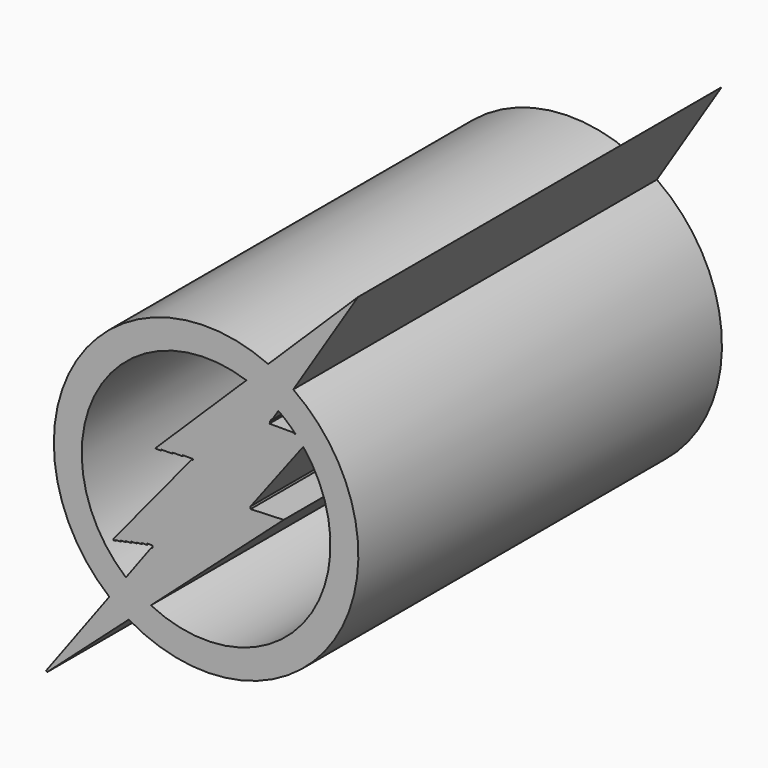
from build123d import *

# Parameters (mm, degrees)
F2_DEPTH = 38.1
F1_R     = 12.7635
F1_R_2   = 10.426057
F3_DEPTH = 38.1


with BuildPart() as f2:
    # F0 (on Front) → F2 (new body)
    with BuildSketch(Plane.XZ):
        Polygon((25.129177, 26.117954), (32.333359, 37.515946), (15.319627, 20.808231), (15.802965, 20.808231), (15.802965, 20.893212), (16.759016, 20.893212), (16.759016, 20.978196), (17.630085, 20.978196), (17.630085, 21.063179), (18.506467, 21.063179), (18.506467, 20.978196), (18.384304, 20.978196), (11.83995, 13.0127), (11.83995, 12.901361), (11.993659, 12.901361), (11.993659, 12.984364), (12.427119, 12.984364), (12.427119, 13.082738), (12.851357, 13.082738), (12.851357, 13.17189), (13.302342, 13.17189), (13.302342, 13.28754), (13.756311, 13.28754), (13.756311, 13.372659), (14.185456, 13.372659), (14.185456, 13.464872), (14.642972, 13.464872), (14.642972, 13.578364), (15.089849, 13.578364), (15.089849, 13.372659), (15.001183, 13.372659), (6.182067, 1.436029), (6.279744, 1.363862), (26.100319, 19.04314), (23.327032, 18.933799), (23.319191, 19.132684), (28.188484, 25.565702), (28.188484, 25.684502), (26.990166, 25.684502), (26.990166, 25.751648), (24.876347, 25.751648), (24.876347, 25.776967), (24.934566, 25.776967), (24.934566, 25.968254), (25.032703, 25.964927), (25.032703, 26.117954), align=None)
    extrude(amount=F2_DEPTH)

    # F1 (on Front) → F3 (join)
    with BuildSketch(Plane.XZ):
        with Locations((19.59583, 18.459385)):
            Circle(F1_R)
        with Locations((19.59583, 18.459385)):
            Circle(F1_R_2, mode=Mode.SUBTRACT)
    extrude(amount=F3_DEPTH)


solid = f2.part
